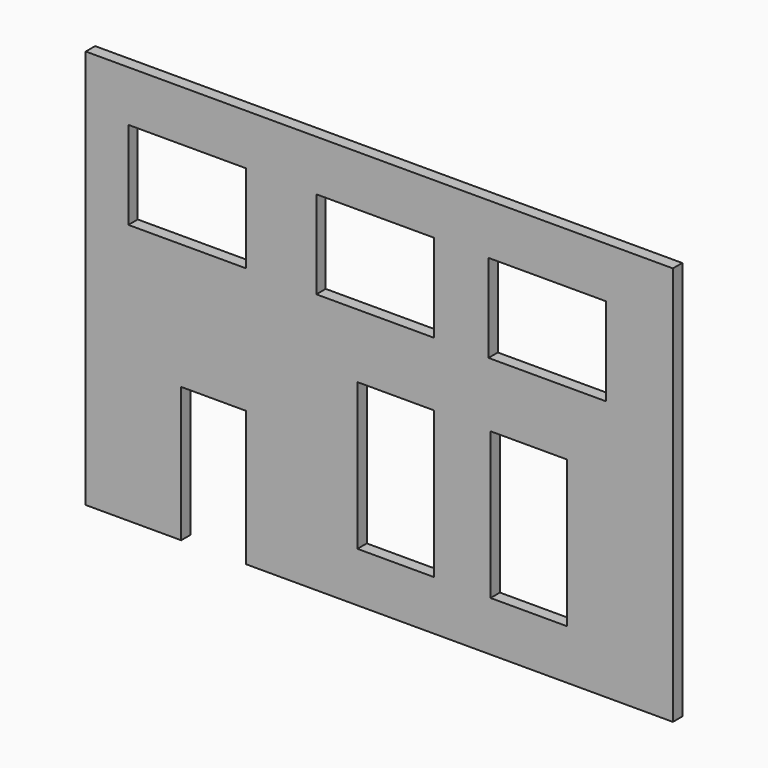
from build123d import *

# Parameters (mm, degrees)
F0_W     = 13
F0_H     = 25
F0_W_2   = 20
F0_H_2   = 15
F1_DEPTH = 2


with BuildPart() as f1:
    # F0 (on Front) → F1 (new body)
    with BuildSketch(Plane.XZ):
        Polygon((40.276188, 34.517385), (-59.723812, 34.517385), (-59.723812, -33.482615), (-43.465011, -33.482615), (-43.465011, -10.482615), (-32.465011, -10.482615), (-32.465011, -33.482615), (40.276188, -33.482615), align=None)
        with Locations((-6.950044, -12.5)):
            Rectangle(F0_W, F0_H, mode=Mode.SUBTRACT)
        with Locations((15.719853, -12.5)):
            Rectangle(F0_W, F0_H, mode=Mode.SUBTRACT)
        with Locations((-42.465011, 18.383584)):
            Rectangle(F0_W_2, F0_H_2, mode=Mode.SUBTRACT)
        with Locations((-10.450044, 18.383584)):
            Rectangle(F0_W_2, F0_H_2, mode=Mode.SUBTRACT)
        with Locations((18.867977, 18.383584)):
            Rectangle(F0_W_2, F0_H_2, mode=Mode.SUBTRACT)
    extrude(amount=F1_DEPTH)


solid = f1.part
